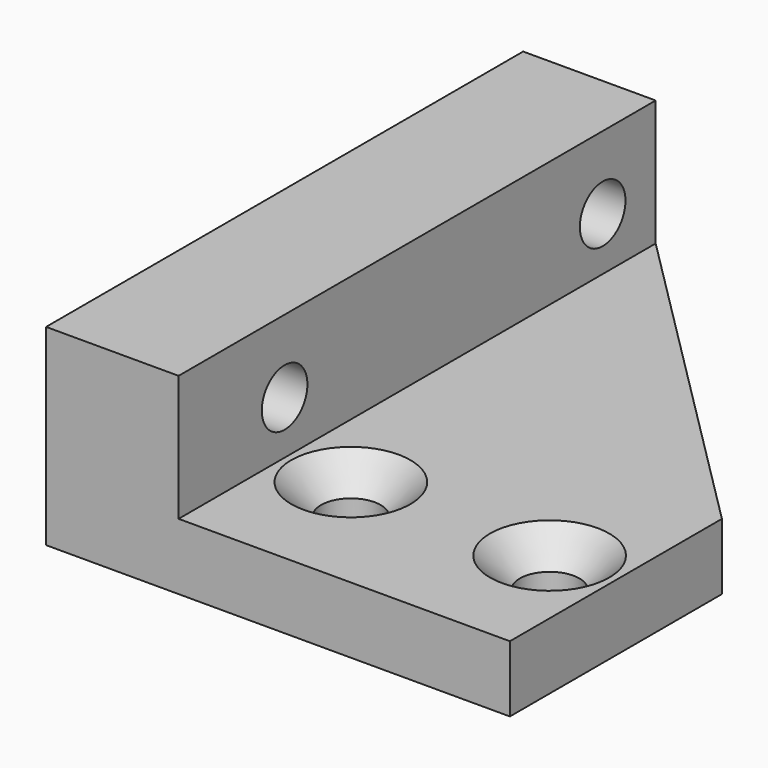
from build123d import *

# Parameters (mm, degrees)
SKETCH033_R         = 2.25
PAD019_DEPTH        = 5
SKETCH035_W         = 45
SKETCH035_H         = 14.5
SKETCH035_R         = 2.15
PAD020_DEPTH        = 10
HOLE007_D           = 4.5
HOLE007_CSINK_D     = 9
HOLE007_CSINK_ANGLE = 90


with BuildPart() as part:
    # Sketch033 → Pad019 (new body)
    with BuildSketch(Plane.XY):
        Polygon((35, 10), (35, -10), (0, -10), (0, 35), (10, 35), align=None)
        with Locations((15, 0)):
            Circle(SKETCH033_R, mode=Mode.SUBTRACT)
        with Locations((30, 0)):
            Circle(SKETCH033_R, mode=Mode.SUBTRACT)
    extrude(amount=PAD019_DEPTH)

    # Sketch035 → Pad020 (join)
    with BuildSketch(Plane.YZ):
        with Locations((12.5, 7.25)):
            Rectangle(SKETCH035_W, SKETCH035_H)
        with Locations((0, 9)):
            Circle(SKETCH035_R, mode=Mode.SUBTRACT)
        with Locations((30, 9)):
            Circle(SKETCH035_R, mode=Mode.SUBTRACT)
    extrude(amount=PAD020_DEPTH)

    # Hole007 (through all)
    with Locations(Plane.XY.offset(5)):
        with Locations((15, 0), (30, 0)):
            CounterSinkHole(HOLE007_D / 2, HOLE007_CSINK_D / 2, counter_sink_angle=HOLE007_CSINK_ANGLE)


solid = part.part
